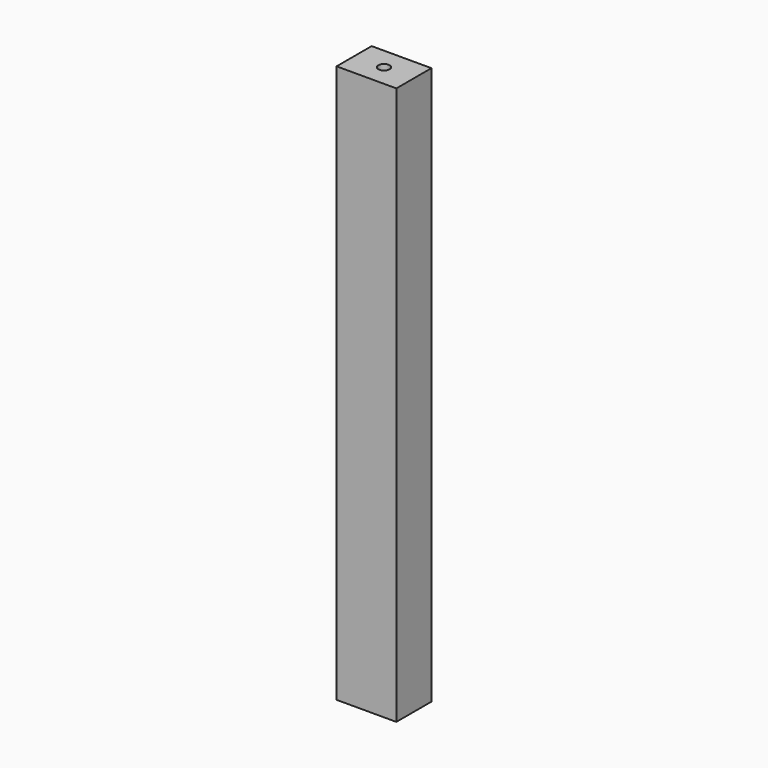
from build123d import *

# Parameters (mm, degrees)
F0_W     = 75
F0_H     = 55
F1_DEPTH = 700
F3_D     = 14
F3_DEPTH = 300
F3_TIP   = 4.2060243332


with BuildPart() as f1:
    # F0 (on Top) → F1 (new body)
    with BuildSketch(Plane.XY):
        with Locations((37.5, 27.5)):
            Rectangle(F0_W, F0_H)
    extrude(amount=F1_DEPTH)

    # F3
    with Locations(Plane.XY.offset(700)):
        with Locations((37.5, 27.5)):
            Hole(F3_D / 2, depth=F3_DEPTH)
            with Locations((0, 0, -(F3_DEPTH + F3_TIP / 2))):  # 118° drill point
                Cone(0, F3_D / 2, F3_TIP, mode=Mode.SUBTRACT)


solid = f1.part
